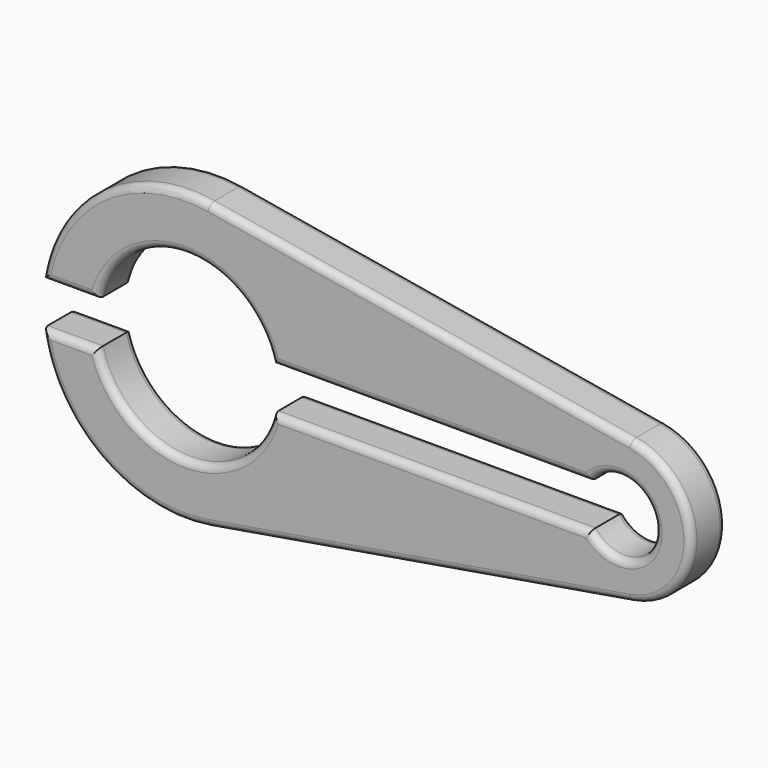
from build123d import *

# Parameters (mm, degrees)
F2_DEPTH      = 7.62
F3_DEPTH      = 7.621
F3_DEPTH_BACK = 25.4
F4_R          = 1.27


with BuildPart() as f2:
    # F0 (on Front) → F2 (new body)
    with BuildSketch(Plane.XZ):
        with BuildLine():
            Line((46.1934629007, 12.5223688742), (-27.8898704326, 25.0447377485))
            ThreePointArc((-27.8898704326, 25.0447377485), (-57.5232037659, 0), (-27.8898704326, -25.0447377485))
            Line((-27.8898704326, -25.0447377485), (46.1934629007, -12.5223688742))
            ThreePointArc((46.1934629007, -12.5223688742), (56.7767962341, 0), (46.1934629007, 12.5223688742))
        make_face()
    extrude(amount=F2_DEPTH)

    # F1 (on Front) → F3 (cut, two sides)
    with BuildSketch(Plane.XZ) as f3_sk:
        with BuildLine():
            Line((38.9967962341, 3.81), (-16.7121841695, 3.81))
            ThreePointArc((-16.7121841695, 3.81), (-32.1232037659, 15.875), (-47.5342233623, 3.81))
            Line((-47.5342233623, 3.81), (-111.9550562739, 3.81))
            Line((-111.9550562739, 3.81), (-111.9550562739, -3.81))
            Line((-111.9550562739, -3.81), (-47.5342233623, -3.81))
            ThreePointArc((-47.5342233623, -3.81), (-32.1232037659, -15.875), (-16.7121841695, -3.81))
            Line((-16.7121841695, -3.81), (38.9967962341, -3.81))
            ThreePointArc((38.9967962341, -3.81), (50.4267962341, 0), (38.9967962341, 3.81))
        make_face()
    extrude(amount=F3_DEPTH, mode=Mode.SUBTRACT)
    extrude(f3_sk.sketch, amount=-F3_DEPTH_BACK, mode=Mode.SUBTRACT)

    # F4
    f4_edges = [f2.edges().sort_by_distance(p)[0] for p in [
        (56.776796, 0, 0),
        (9.151796, 0, -18.783553),
        (-47.013292, 0, -20.577786),
        (-52.385026, 0, -3.81),
        (-32.123204, 0, -15.875),
        (11.142306, 0, -3.81),
        (50.426796, 0, 0),
        (11.142306, 0, 3.81),
        (-32.123204, 0, 15.875),
        (-52.385026, 0, 3.81),
        (-47.013292, 0, 20.577786),
        (9.151796, 0, 18.783553),
        (56.776796, -7.62, 0),
        (9.151796, -7.62, -18.783553),
        (-47.013292, -7.62, -20.577786),
        (-52.385026, -7.62, -3.81),
        (-32.123204, -7.62, -15.875),
        (11.142306, -7.62, -3.81),
        (50.426796, -7.62, 0),
        (11.142306, -7.62, 3.81),
        (-32.123204, -7.62, 15.875),
        (-52.385026, -7.62, 3.81),
        (-47.013292, -7.62, 20.577786),
        (9.151796, -7.62, 18.783553),
    ]]
    fillet(f4_edges, radius=F4_R)


solid = f2.part
